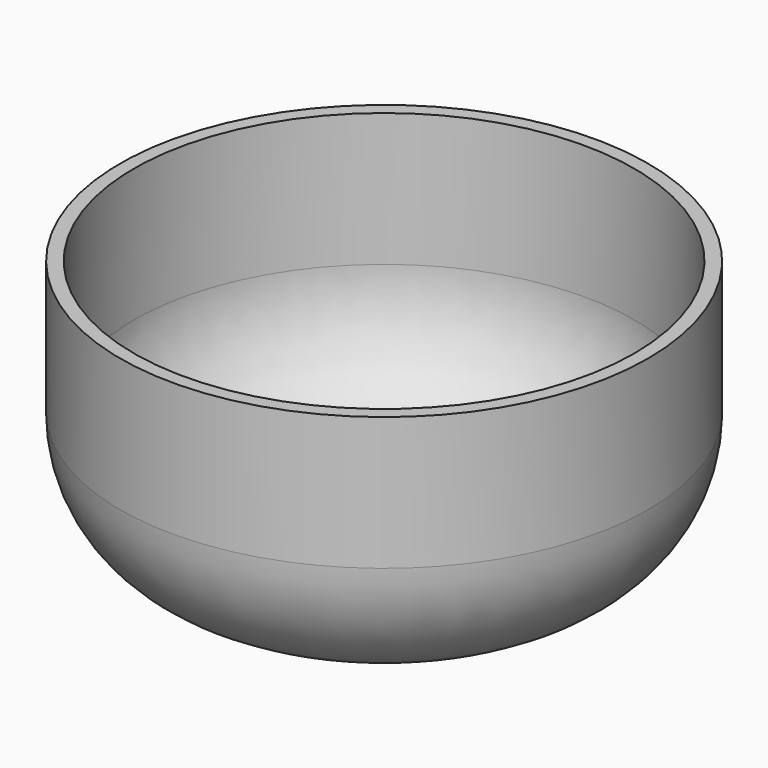
from build123d import *

# Parameters (mm, degrees)
F0_R     = 48.822683
F1_DEPTH = 50.038
F2_R     = 25.4
F3_T     = -2.54


with BuildPart() as f1:
    # F0 (on Top) → F1 (new body)
    with BuildSketch(Plane.XY):
        with Locations((-40.951356, 14.969614)):
            Circle(F0_R)
    extrude(amount=F1_DEPTH)

    # F2
    f2_edges = [f1.edges().sort_by_distance(p)[0] for p in [
        (-89.774039, 14.969614, 0),
    ]]
    fillet(f2_edges, radius=F2_R)

    # F3
    f3_openings = [f1.faces().sort_by_distance(p)[0] for p in [
        (-40.951356, 14.969614, 50.038),
    ]]
    offset(amount=F3_T, openings=f3_openings)


solid = f1.part
